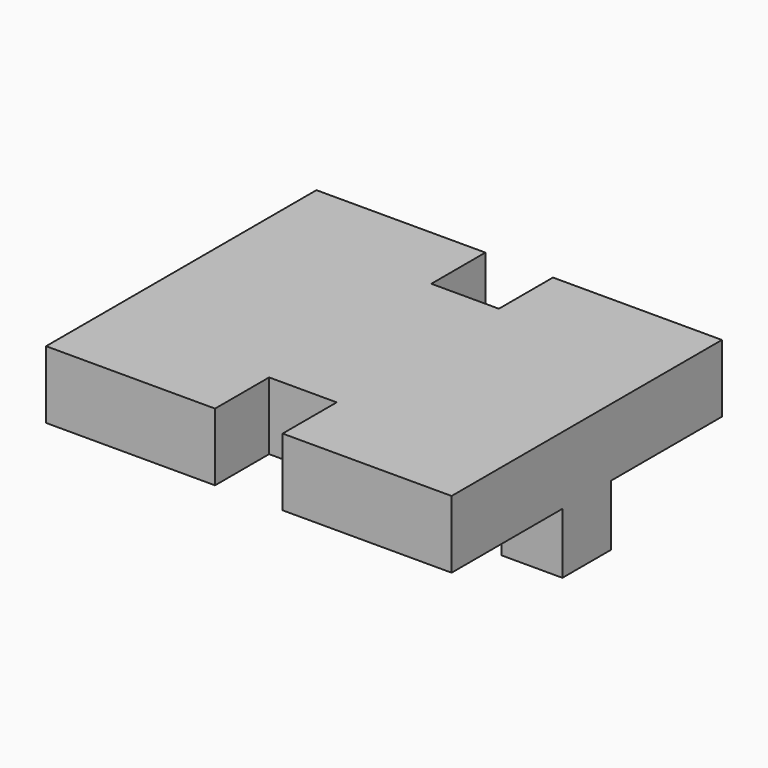
from build123d import *

# Parameters (mm, degrees)
F1_DEPTH = 10
F2_W     = 9
F2_H     = 9
F3_DEPTH = 9


with BuildPart() as f1:
    # F0 (on Top) → F1 (new body)
    with BuildSketch(Plane.XY):
        Polygon((80.719794, 8.960046), (80.719794, 58.960046), (55.719794, 58.960046), (55.719794, 48.960046), (45.719794, 48.960046), (45.719794, 58.960046), (20.719794, 58.960046), (20.719794, 8.960046), (45.719794, 8.960046), (45.719794, 18.960046), (55.719794, 18.960046), (55.719794, 8.960046), align=None)
    extrude(amount=F1_DEPTH)

    # F2 (on face) → F3 (join)
    with BuildSketch(Plane.XY):
        with Locations((25.219794, 33.960046)):
            Rectangle(F2_W, F2_H)
        with Locations((76.219794, 33.960046)):
            Rectangle(F2_W, F2_H)
    extrude(amount=-F3_DEPTH)


solid = f1.part
